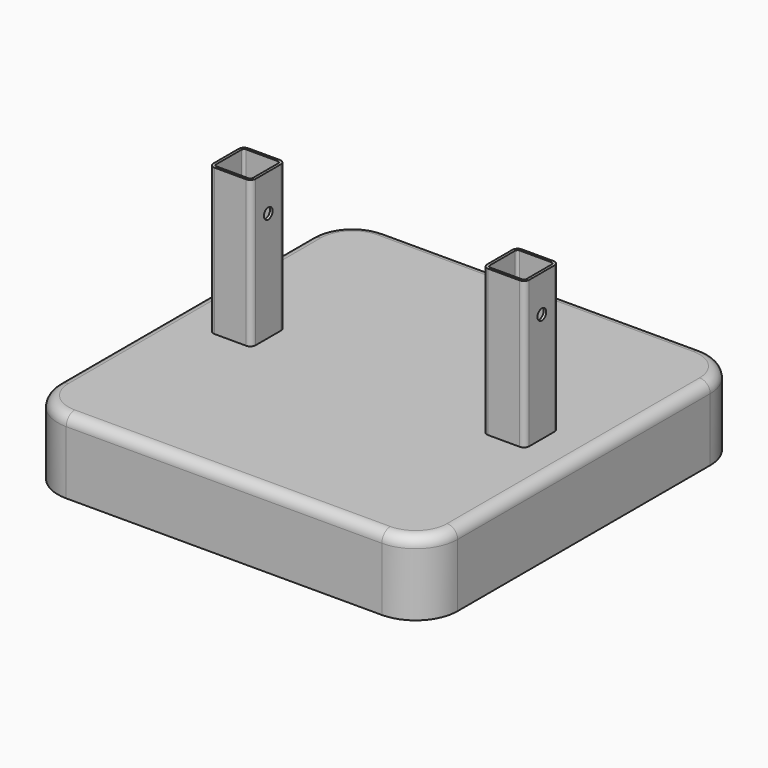
from build123d import *

# Parameters (mm, degrees)
F0_W     = 482.6
F0_H     = 482.6
F1_DEPTH = 88.9
F2_R     = 50.8
F3_R     = 12.7
F5_DEPTH = 88.9
F7_DEPTH = 87.884
F8_R     = 6.54812
F9_DEPTH = 431.801


with BuildPart() as f1:
    # F0 (on Top) → F1 (new body)
    with BuildSketch(Plane.XY):
        Rectangle(F0_W, F0_H)
    extrude(amount=-F1_DEPTH)

    # F2
    f2_edges = [f1.edges().sort_by_distance(p)[0] for p in [
        (-241.3, -241.3, -44.45),
        (241.3, -241.3, -44.45),
        (241.3, 241.3, -44.45),
        (-241.3, 241.3, -44.45),
    ]]
    fillet(f2_edges, radius=F2_R)

    # F3
    f3_edges = [f1.edges().sort_by_distance(p)[0] for p in [
        (0, 241.3, 0),
    ]]
    fillet(f3_edges, radius=F3_R)


with BuildPart() as f5:
    # F4 (on Top) → F5 (new body, symmetric)
    with BuildSketch(Plane.XY):
        with BuildLine():
            ThreePointArc((190.5, 19.05), (188.640128, 23.540128), (184.15, 25.4))
            Line((184.15, 25.4), (146.05, 25.4))
            ThreePointArc((146.05, 25.4), (141.559872, 23.540128), (139.7, 19.05))
            Line((139.7, 19.05), (139.7, -19.05))
            ThreePointArc((139.7, -19.05), (141.559872, -23.540128), (146.05, -25.4))
            Line((146.05, -25.4), (184.15, -25.4))
            ThreePointArc((184.15, -25.4), (188.640128, -23.540128), (190.5, -19.05))
            Line((190.5, -19.05), (190.5, 19.05))
        make_face()
        with BuildLine():
            Line((146.05, 22.225), (184.15, 22.225))
            ThreePointArc((184.15, 22.225), (186.395064, 21.295064), (187.325, 19.05))
            Line((187.325, 19.05), (187.325, -19.05))
            ThreePointArc((187.325, -19.05), (186.395064, -21.295064), (184.15, -22.225))
            Line((184.15, -22.225), (146.05, -22.225))
            ThreePointArc((146.05, -22.225), (143.804936, -21.295064), (142.875, -19.05))
            Line((142.875, -19.05), (142.875, 19.05))
            ThreePointArc((142.875, 19.05), (143.804936, 21.295064), (146.05, 22.225))
        make_face(mode=Mode.SUBTRACT)
        with BuildLine():
            ThreePointArc((-139.7, 19.05), (-141.559872, 23.540128), (-146.05, 25.4))
            Line((-146.05, 25.4), (-184.15, 25.4))
            ThreePointArc((-184.15, 25.4), (-188.640128, 23.540128), (-190.5, 19.05))
            Line((-190.5, 19.05), (-190.5, -19.05))
            ThreePointArc((-190.5, -19.05), (-188.640128, -23.540128), (-184.15, -25.4))
            Line((-184.15, -25.4), (-146.05, -25.4))
            ThreePointArc((-146.05, -25.4), (-141.559872, -23.540128), (-139.7, -19.05))
            Line((-139.7, -19.05), (-139.7, 19.05))
        make_face()
        with BuildLine():
            Line((-184.15, 22.225), (-146.05, 22.225))
            ThreePointArc((-146.05, 22.225), (-143.804936, 21.295064), (-142.875, 19.05))
            Line((-142.875, 19.05), (-142.875, -19.05))
            ThreePointArc((-142.875, -19.05), (-143.804936, -21.295064), (-146.05, -22.225))
            Line((-146.05, -22.225), (-184.15, -22.225))
            ThreePointArc((-184.15, -22.225), (-186.395064, -21.295064), (-187.325, -19.05))
            Line((-187.325, -19.05), (-187.325, 19.05))
            ThreePointArc((-187.325, 19.05), (-186.395064, 21.295064), (-184.15, 22.225))
        make_face(mode=Mode.SUBTRACT)
    extrude(amount=F5_DEPTH, both=True)

    # F6 (on face) → F7 (join)
    with BuildSketch(Plane.XY.offset(88.9)):
        with BuildLine():
            ThreePointArc((139.7, -19.05), (141.559872, -23.540128), (146.05, -25.4))
            Line((146.05, -25.4), (184.15, -25.4))
            ThreePointArc((184.15, -25.4), (188.640128, -23.540128), (190.5, -19.05))
            Line((190.5, -19.05), (190.5, 19.05))
            ThreePointArc((190.5, 19.05), (188.640128, 23.540128), (184.15, 25.4))
            Line((184.15, 25.4), (146.05, 25.4))
            ThreePointArc((146.05, 25.4), (141.559872, 23.540128), (139.7, 19.05))
            Line((139.7, 19.05), (139.7, -19.05))
        make_face()
        with BuildLine():
            Line((142.875, -19.05), (142.875, 19.05))
            ThreePointArc((142.875, 19.05), (143.804936, 21.295064), (146.05, 22.225))
            Line((146.05, 22.225), (184.15, 22.225))
            ThreePointArc((184.15, 22.225), (186.395064, 21.295064), (187.325, 19.05))
            Line((187.325, 19.05), (187.325, -19.05))
            ThreePointArc((187.325, -19.05), (186.395064, -21.295064), (184.15, -22.225))
            Line((184.15, -22.225), (146.05, -22.225))
            ThreePointArc((146.05, -22.225), (143.804936, -21.295064), (142.875, -19.05))
        make_face(mode=Mode.SUBTRACT)
        with BuildLine():
            ThreePointArc((-139.7, 19.05), (-141.559872, 23.540128), (-146.05, 25.4))
            Line((-146.05, 25.4), (-184.15, 25.4))
            ThreePointArc((-184.15, 25.4), (-188.640128, 23.540128), (-190.5, 19.05))
            Line((-190.5, 19.05), (-190.5, -19.05))
            ThreePointArc((-190.5, -19.05), (-188.640128, -23.540128), (-184.15, -25.4))
            Line((-184.15, -25.4), (-146.05, -25.4))
            ThreePointArc((-146.05, -25.4), (-141.559872, -23.540128), (-139.7, -19.05))
            Line((-139.7, -19.05), (-139.7, 19.05))
        make_face()
        with BuildLine():
            Line((-184.15, 22.225), (-146.05, 22.225))
            ThreePointArc((-146.05, 22.225), (-143.804936, 21.295064), (-142.875, 19.05))
            Line((-142.875, 19.05), (-142.875, -19.05))
            ThreePointArc((-142.875, -19.05), (-143.804936, -21.295064), (-146.05, -22.225))
            Line((-146.05, -22.225), (-184.15, -22.225))
            ThreePointArc((-184.15, -22.225), (-186.395064, -21.295064), (-187.325, -19.05))
            Line((-187.325, -19.05), (-187.325, 19.05))
            ThreePointArc((-187.325, 19.05), (-186.395064, 21.295064), (-184.15, 22.225))
        make_face(mode=Mode.SUBTRACT)
    extrude(amount=F7_DEPTH)

    # F8 (on face) → F9 (cut, through all)
    with BuildSketch(Plane.YZ.offset(190.5)):
        with Locations((0, 132.334)):
            Circle(F8_R)
    extrude(amount=-F9_DEPTH, mode=Mode.SUBTRACT)


solid = Compound([f1.part, f5.part])
